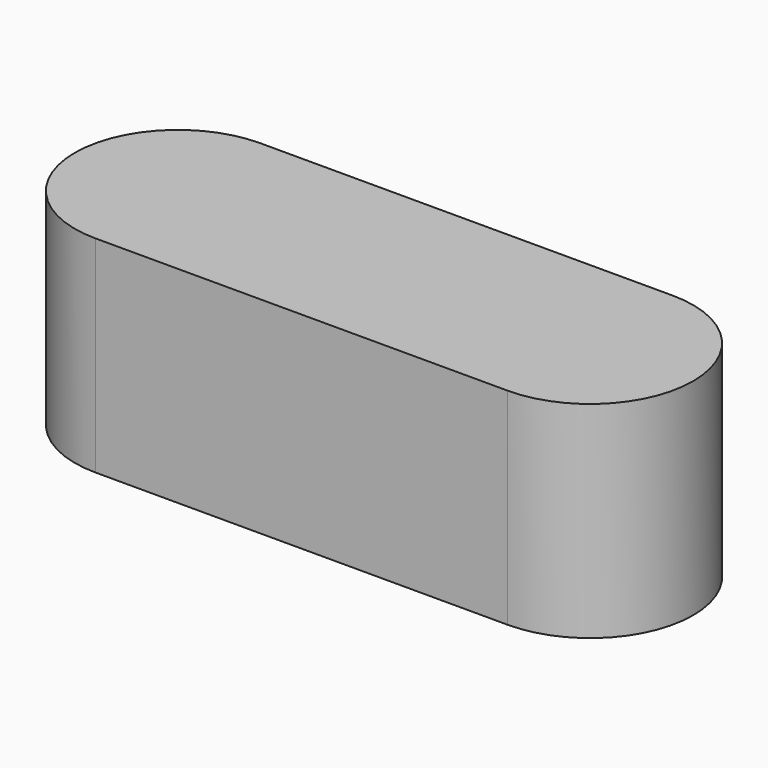
from build123d import *

# Parameters (mm, degrees)
CYLINDER_R        = 2.5
CYLINDER_DEPTH    = 5
CYLINDER001_R     = 2.5
CYLINDER001_DEPTH = 5
BOX_W             = 10
BOX_H             = 5
BOX_DEPTH         = 5


with BuildPart() as cylinder:
    # Cylinder → Cylinder (new body)
    with BuildSketch(Plane.XY):
        Circle(CYLINDER_R)
    extrude(amount=CYLINDER_DEPTH)


with BuildPart() as cylinder001:
    # Cylinder001 → Cylinder001 (new body)
    with BuildSketch(Plane(origin=(10, 0, 0), x_dir=(1, 0, 0), z_dir=(0, 0, 1))):
        Circle(CYLINDER001_R)
    extrude(amount=CYLINDER001_DEPTH)


with BuildPart() as hole_template_d5:
    # Box → Box (new body)
    with BuildSketch(Plane(origin=(0, -2.5, 0), x_dir=(1, 0, 0), z_dir=(0, 0, 1))):
        with Locations((5, 2.5)):
            Rectangle(BOX_W, BOX_H)
    extrude(amount=BOX_DEPTH)

    # Fusion003: union Cylinder, Cylinder001
    add(cylinder.part)
    add(cylinder001.part)


solid = hole_template_d5.part
